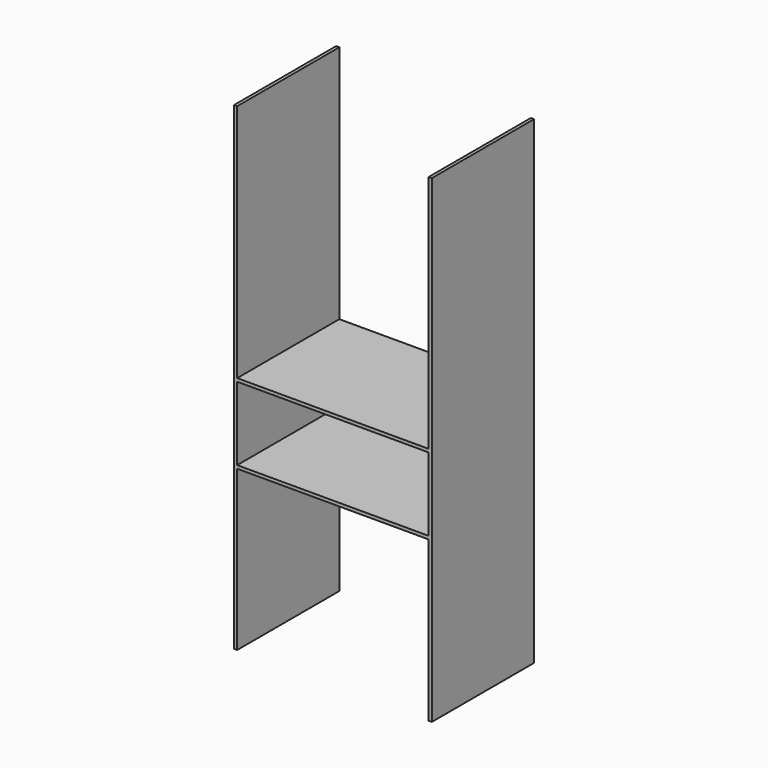
from build123d import *

# Parameters (mm, degrees)
F0_W     = 120
F0_H     = 46
F1_DEPTH = 40


with BuildPart() as f1:
    # F0 (on Front) → F1 (new body, symmetric)
    with BuildSketch(Plane.XZ):
        Polygon((60, 0), (-60, 0), (-60, 150), (-62, 150), (-62, -150), (-60, -150), (-60, -50), (60, -50), (60, -150), (62, -150), (62, 150), (60, 150), align=None)
        with Locations((0, -25)):
            Rectangle(F0_W, F0_H, mode=Mode.SUBTRACT)
    extrude(amount=F1_DEPTH, both=True)


solid = f1.part
